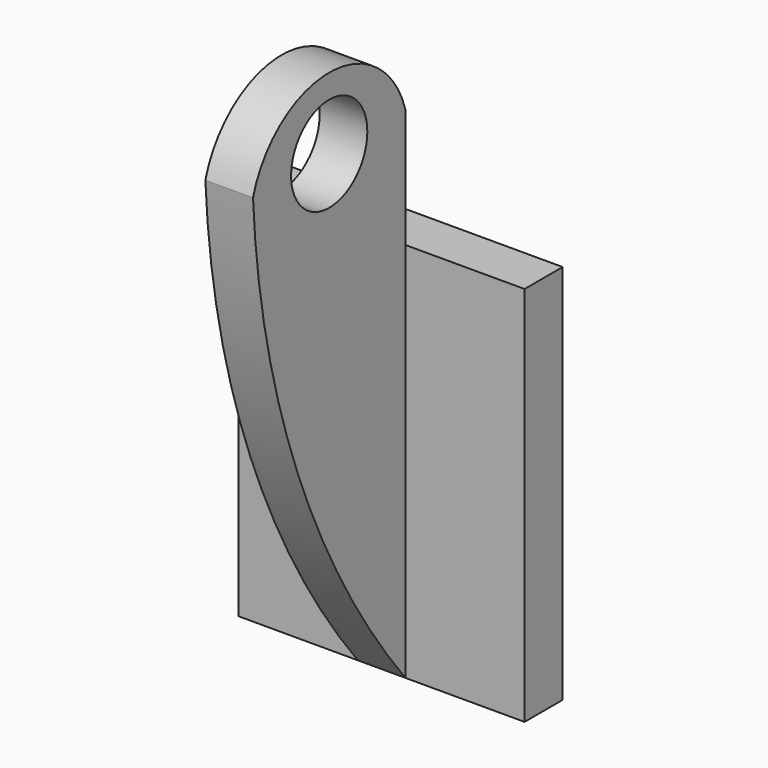
from build123d import *

# Parameters (mm, degrees)
F0_W     = 76.2
F0_H     = 101.6
F1_DEPTH = 12.7
F2_W     = 12.7
F2_H     = 101.6
F3_DEPTH = 50.8
F4_W     = 12.7
F4_H     = 50.8
F5_DEPTH = 50.8
F6_R     = 12.7
F7_DEPTH = 25.4


with BuildPart() as f1:
    # F0 (on Front) → F1 (new body)
    with BuildSketch(Plane.XZ):
        Rectangle(F0_W, F0_H)
    extrude(amount=F1_DEPTH)

    # F2 (on face) → F3 (join)
    with BuildSketch(Plane.XZ.offset(12.7)):
        Rectangle(F2_W, F2_H)
    extrude(amount=F3_DEPTH)

    # F4 (on face) → F5 (join)
    with BuildSketch(Plane.XY.offset(50.8)):
        with Locations((0, -38.1)):
            Rectangle(F4_W, F4_H)
    extrude(amount=F5_DEPTH)

    # F6 (on face) → F7 (cut)
    with BuildSketch(Plane.YZ.offset(6.35)):
        with Locations((-38.1, 82.55)):
            Circle(F6_R)
        with BuildLine():
            ThreePointArc((-12.7, -50.8), (-48.635426, 11.861504), (-63.5, 82.55))
            Line((-63.5, 82.55), (-133.589551, -36.487788))
            Line((-133.589551, -36.487788), (-38.791277, -66.6712))
            Line((-38.791277, -66.6712), (-12.7, -50.8))
        make_face()
        with BuildLine():
            ThreePointArc((-63.5, 82.55), (-38.1, 101.6), (-12.7, 82.55))
            Line((-12.7, 82.55), (0, 103.250235))
            Line((0, 103.250235), (-76.800019, 103.250235))
            Line((-76.800019, 103.250235), (-63.5, 82.55))
        make_face()
    extrude(amount=-F7_DEPTH, mode=Mode.SUBTRACT)


solid = f1.part
